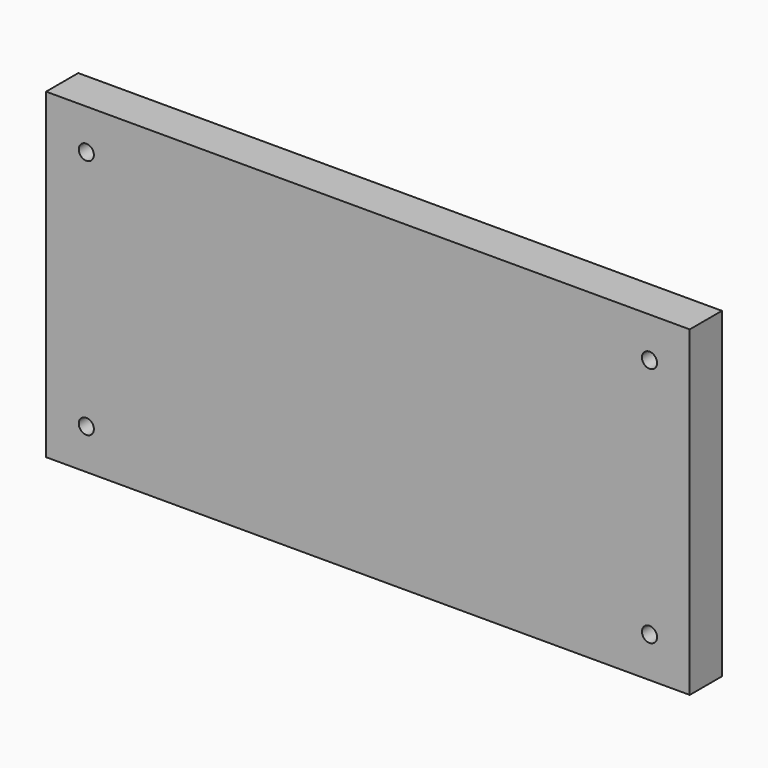
from build123d import *

# Parameters (mm, degrees)
F0_W     = 203.2
F0_H     = 101.6
F1_DEPTH = 12.7
F3_D     = 4.7752


with BuildPart() as f1:
    # F0 (on Front) → F1 (new body)
    with BuildSketch(Plane.XZ):
        with Locations((101.6, 50.8)):
            Rectangle(F0_W, F0_H)
    extrude(amount=F1_DEPTH)

    # F3 (through all)
    with Locations(Plane.XZ.offset(12.7)):
        with Locations((12.7, 12.7), (190.5, 12.7), (190.5, 88.9), (12.7, 88.9)):
            Hole(F3_D / 2)


solid = f1.part
